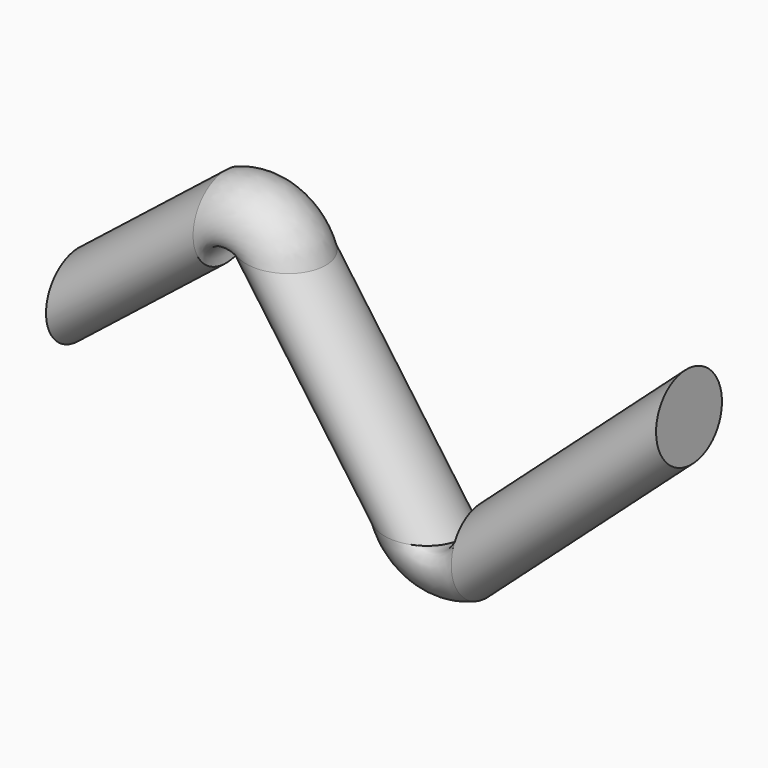
from build123d import *

# Parameters (mm, degrees)
F0_R = 12.7


with BuildPart() as f2:
    # F2: sweep along a path in F1
    with BuildLine(Plane.XZ) as f2_path:
        Line((0, 0), (45.4983765318, 35.9417446334))
        ThreePointArc((45.4983765318, 35.9417446334), (55.1652082788, 38.5486712732), (63.7168080823, 33.3415757938))
        Line((63.7168080823, 33.3415757938), (106.5844073545, -26.8725917944))
        ThreePointArc((106.5844073545, -26.8725917944), (115.5359641811, -32.1303063153), (125.4192771408, -28.9531918158))
        Line((125.4192771408, -28.9531918158), (188.7651884179, 27.9735944876))
    # F0 (on Right) → F2 (sweep)
    with BuildSketch(Plane.YZ):
        Circle(F0_R)
    sweep(path=f2_path.line)


solid = f2.part
